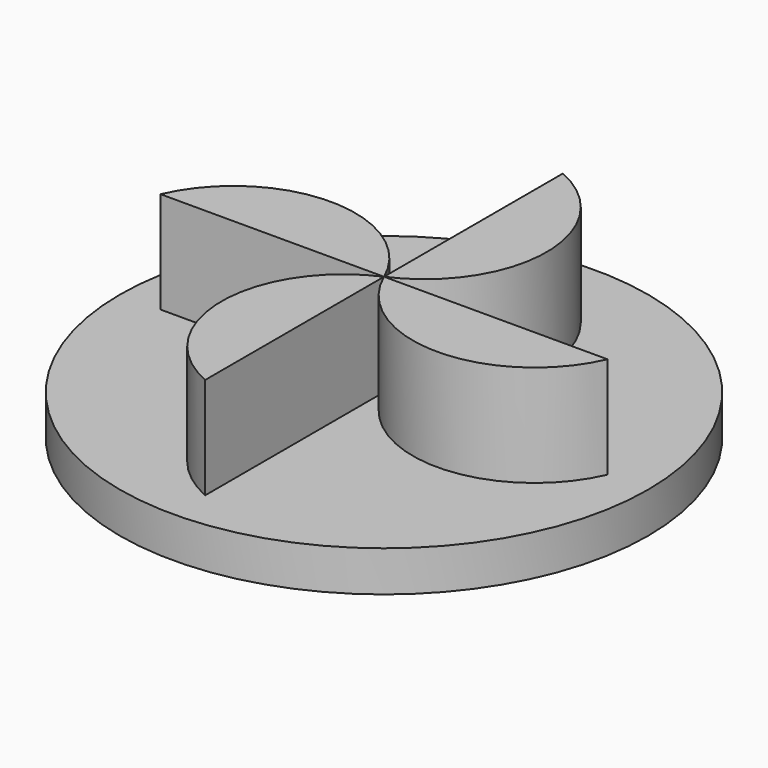
from build123d import *

# Parameters (mm, degrees)
F0_R     = 65
F1_DEPTH = 10
F3_DEPTH = 25
F4_SCALE = 0.7


with BuildPart() as f1:
    # F0 (on Top) → F1 (new body)
    with BuildSketch(Plane.XY):
        Circle(F0_R)
    extrude(amount=F1_DEPTH)


with BuildPart() as f3:
    # F2 (on face) → F3 (new body)
    with BuildSketch(Plane.XY.offset(10)):
        with BuildLine():
            Line((0, 55), (0, 0))
            ThreePointArc((0, 0), (18.0104211917, 27.5), (0, 55))
        make_face()
    extrude(amount=F3_DEPTH)


with BuildPart() as f3b:
    # F2 (on face) → F3, piece 2 (new body)
    with BuildSketch(Plane.XY.offset(10)):
        with BuildLine():
            Line((55, 0), (0, 0))
            ThreePointArc((0, 0), (27.5, -18.0104211917), (55, 0))
        make_face()
    extrude(amount=F3_DEPTH)


with BuildPart() as f3c:
    # F2 (on face) → F3, piece 3 (new body)
    with BuildSketch(Plane.XY.offset(10)):
        with BuildLine():
            Line((0, -55), (0, 0))
            ThreePointArc((0, 0), (-18.0104211917, -27.5), (0, -55))
        make_face()
    extrude(amount=F3_DEPTH)


with BuildPart() as f3d:
    # F2 (on face) → F3, piece 4 (new body)
    with BuildSketch(Plane.XY.offset(10)):
        with BuildLine():
            Line((-55, 0), (0, 0))
            ThreePointArc((0, 0), (-27.5, 18.0104211917), (-55, 0))
        make_face()
    extrude(amount=F3_DEPTH)


with BuildPart() as f1_1:
    # F4: moved
    add(f1.part.scale(F4_SCALE))


with BuildPart() as f3_1:
    # F4: moved
    add(f3.part.scale(F4_SCALE))


with BuildPart() as f3b_1:
    # F4: moved
    add(f3b.part.scale(F4_SCALE))


with BuildPart() as f3c_1:
    # F4: moved
    add(f3c.part.scale(F4_SCALE))


with BuildPart() as f3d_1:
    # F4: moved
    add(f3d.part.scale(F4_SCALE))


solid = Compound([f1_1.part, f3_1.part, f3b_1.part, f3c_1.part, f3d_1.part])
